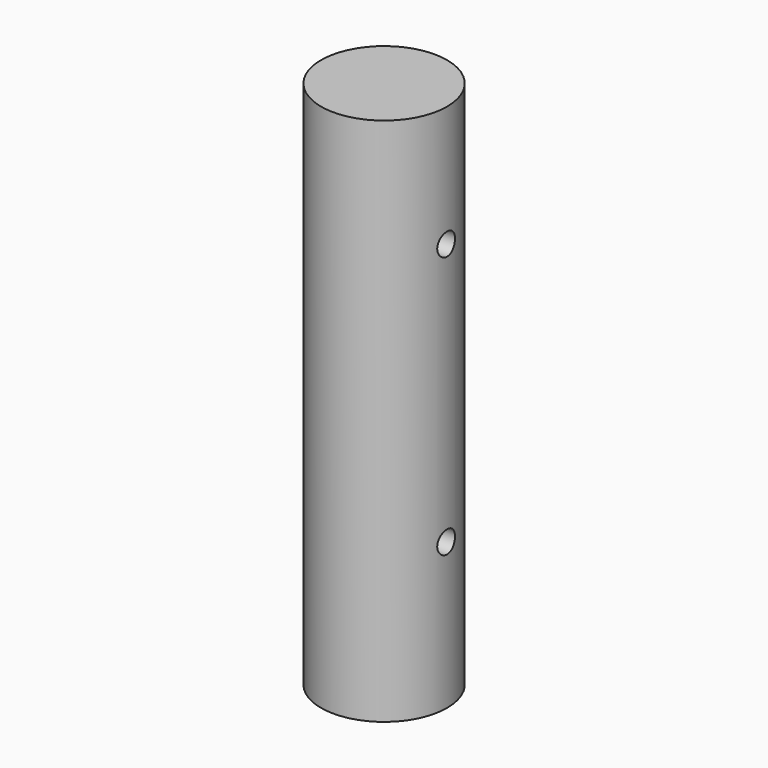
from build123d import *

# Parameters (mm, degrees)
F0_R     = 12.5
F0_R_2   = 9.5
F1_DEPTH = 105
F2_R     = 12.5
F3_DEPTH = 3
F5_D     = 3.3
F5_DEPTH = 22.1
F5_TIP   = 0.9914200214
F7_D     = 4.4
F7_DEPTH = 22.1
F7_TIP   = 1.3218933619


with BuildPart() as f1:
    # F0 (on Top) → F1 (new body)
    with BuildSketch(Plane.XY):
        Circle(F0_R)
        Circle(F0_R_2, mode=Mode.SUBTRACT)
    extrude(amount=F1_DEPTH)

    # F2 (on face) → F3 (join)
    with BuildSketch(Plane.XY.offset(105)):
        Circle(F2_R)
    extrude(amount=-F3_DEPTH)

    # F5 (one way)
    with BuildSketch(Plane.XZ):
        with Locations((0, 12)):
            Circle(F5_D / 2)
    extrude(amount=-F5_DEPTH, mode=Mode.SUBTRACT)
    with Locations(Plane.XZ):
        with Locations((0, 12)):
            with Locations((0, 0, -(F5_DEPTH + F5_TIP / 2))):  # 118° drill point
                Cone(0, F5_D / 2, F5_TIP, mode=Mode.SUBTRACT)

    # F7 (one way)
    with BuildSketch(Plane(origin=(0, 0, 0), x_dir=(0, 1, 0), z_dir=(-1, 0, 0))):
        with Locations((0, -81), (0, -29)):
            Circle(F7_D / 2)
    extrude(amount=-F7_DEPTH, mode=Mode.SUBTRACT)
    with Locations(Plane(origin=(0, 0, 0), x_dir=(0, 1, 0), z_dir=(-1, 0, 0))):
        with Locations((0, -81), (0, -29)):
            with Locations((0, 0, -(F7_DEPTH + F7_TIP / 2))):  # 118° drill point
                Cone(0, F7_D / 2, F7_TIP, mode=Mode.SUBTRACT)


solid = f1.part
